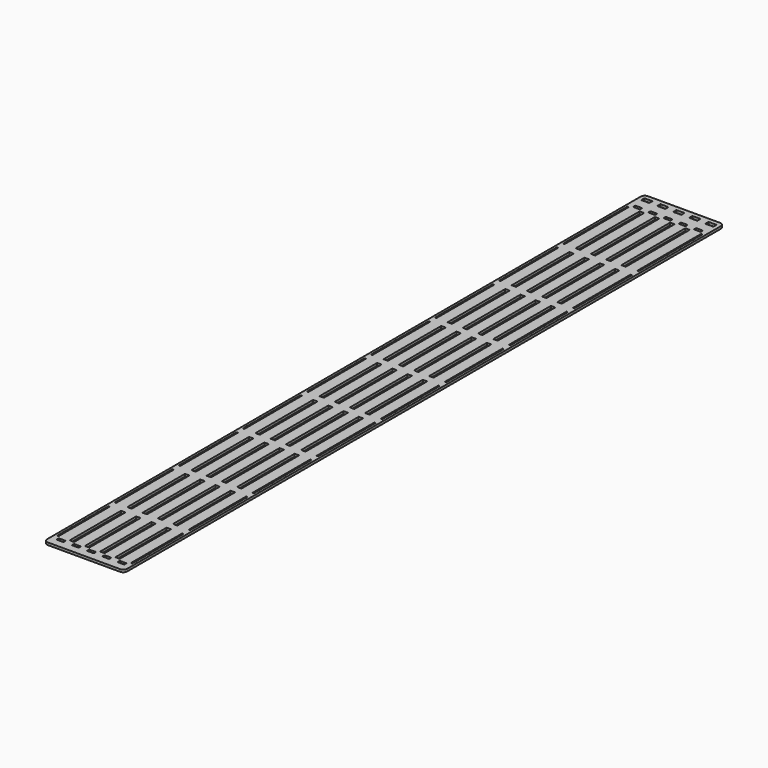
from build123d import *

# Parameters (mm, degrees)
F0_W     = 10
F0_H     = 5
F0_W_2   = 5.5
F0_H_2   = 10
F0_W_3   = 1.75
F1_DEPTH = 3


with BuildPart() as f1:
    # F0 (on Top) → F1 (new body)
    with BuildSketch(Plane.XY):
        with BuildLine():
            Line((45, 475), (-45, 475))
            ThreePointArc((-45, 475), (-48.5355339059, 473.5355339059), (-50, 470))
            Line((-50, 470), (-50, -456.75))
            ThreePointArc((-50, -456.75), (-48.5355339059, -460.2855339059), (-45, -461.75))
            Line((-45, -461.75), (45, -461.75))
            ThreePointArc((45, -461.75), (48.5355339059, -460.2855339059), (50, -456.75))
            Line((50, -456.75), (50, 470))
            ThreePointArc((50, 470), (48.5355339059, 473.5355339059), (45, 475))
        make_face()
        with BuildLine():
            Line((-41.75, -448.25), (-34.25, -448.25))
            ThreePointArc((-34.25, -448.25), (-33.8964466094, -448.3964466094), (-33.75, -448.75))
            Line((-33.75, -448.75), (-33.75, -451.25))
            ThreePointArc((-33.75, -451.25), (-33.8964466094, -451.6035533906), (-34.25, -451.75))
            Line((-34.25, -451.75), (-41.75, -451.75))
            ThreePointArc((-41.75, -451.75), (-42.1035533906, -451.6035533906), (-42.25, -451.25))
            Line((-42.25, -451.25), (-42.25, -448.75))
            ThreePointArc((-42.25, -448.75), (-42.1035533906, -448.3964466094), (-41.75, -448.25))
        make_face(mode=Mode.SUBTRACT)
        with BuildLine():
            Line((-22.75, -448.25), (-15.25, -448.25))
            ThreePointArc((-15.25, -448.25), (-14.8964466094, -448.3964466094), (-14.75, -448.75))
            Line((-14.75, -448.75), (-14.75, -451.25))
            ThreePointArc((-14.75, -451.25), (-14.8964466094, -451.6035533906), (-15.25, -451.75))
            Line((-15.25, -451.75), (-22.75, -451.75))
            ThreePointArc((-22.75, -451.75), (-23.1035533906, -451.6035533906), (-23.25, -451.25))
            Line((-23.25, -451.25), (-23.25, -448.75))
            ThreePointArc((-23.25, -448.75), (-23.1035533906, -448.3964466094), (-22.75, -448.25))
        make_face(mode=Mode.SUBTRACT)
        with BuildLine():
            Line((-4.25, -451.25), (-4.25, -448.75))
            ThreePointArc((-4.25, -448.75), (-4.1035533906, -448.3964466094), (-3.75, -448.25))
            Line((-3.75, -448.25), (3.75, -448.25))
            ThreePointArc((3.75, -448.25), (4.1035533906, -448.3964466094), (4.25, -448.75))
            Line((4.25, -448.75), (4.25, -451.25))
            ThreePointArc((4.25, -451.25), (4.1035533906, -451.6035533906), (3.75, -451.75))
            Line((3.75, -451.75), (-3.75, -451.75))
            ThreePointArc((-3.75, -451.75), (-4.1035533906, -451.6035533906), (-4.25, -451.25))
        make_face(mode=Mode.SUBTRACT)
        Polygon((-47, 345), (-47, 445), (-45.25, 445), (-45.25, 345), (-45.25, 335), (-45.25, 245), (-45.25, 235), (-45.25, 145), (-45.25, 135), (-45.25, 45), (-45.25, 35), (-45.25, -55), (-45.25, -65), (-45.25, -155), (-45.25, -165), (-45.25, -255), (-45.25, -265), (-45.25, -355), (-45.25, -365), (-45.25, -445), (-47, -445), (-47, -365), (-47, -355), (-47, -265), (-47, -255), (-47, -165), (-47, -155), (-47, -65), (-47, -55), (-47, 35), (-47, 45), (-47, 135), (-47, 145), (-47, 235), (-47, 245), (-47, 335), align=None, mode=Mode.SUBTRACT)
        Polygon((-31.25, 345), (-31.25, 445), (-25.75, 445), (-25.75, 345), (-25.75, 335), (-25.75, 245), (-25.75, 235), (-25.75, 145), (-25.75, 135), (-25.75, 45), (-25.75, 35), (-25.75, -55), (-25.75, -65), (-25.75, -155), (-25.75, -165), (-25.75, -255), (-25.75, -265), (-25.75, -355), (-25.75, -365), (-25.75, -445), (-31.25, -445), (-31.25, -365), (-31.25, -355), (-31.25, -265), (-31.25, -255), (-31.25, -165), (-31.25, -155), (-31.25, -65), (-31.25, -55), (-31.25, 35), (-31.25, 45), (-31.25, 135), (-31.25, 145), (-31.25, 235), (-31.25, 245), (-31.25, 335), align=None, mode=Mode.SUBTRACT)
        Polygon((-12.25, 345), (-12.25, 445), (-6.75, 445), (-6.75, 345), (-6.75, 335), (-6.75, 245), (-6.75, 235), (-6.75, 145), (-6.75, 135), (-6.75, 45), (-6.75, 35), (-6.75, -55), (-6.75, -65), (-6.75, -155), (-6.75, -165), (-6.75, -255), (-6.75, -265), (-6.75, -355), (-6.75, -365), (-6.75, -445), (-12.25, -445), (-12.25, -365), (-12.25, -355), (-12.25, -265), (-12.25, -255), (-12.25, -165), (-12.25, -155), (-12.25, -65), (-12.25, -55), (-12.25, 35), (-12.25, 45), (-12.25, 135), (-12.25, 145), (-12.25, 235), (-12.25, 245), (-12.25, 335), align=None, mode=Mode.SUBTRACT)
        with BuildLine():
            Line((15.25, -448.25), (22.75, -448.25))
            ThreePointArc((22.75, -448.25), (23.1035533906, -448.3964466094), (23.25, -448.75))
            Line((23.25, -448.75), (23.25, -451.25))
            ThreePointArc((23.25, -451.25), (23.1035533906, -451.6035533906), (22.75, -451.75))
            Line((22.75, -451.75), (15.25, -451.75))
            ThreePointArc((15.25, -451.75), (14.8964466094, -451.6035533906), (14.75, -451.25))
            Line((14.75, -451.25), (14.75, -448.75))
            ThreePointArc((14.75, -448.75), (14.8964466094, -448.3964466094), (15.25, -448.25))
        make_face(mode=Mode.SUBTRACT)
        with BuildLine():
            Line((33.75, -451.25), (33.75, -448.75))
            ThreePointArc((33.75, -448.75), (33.8964466094, -448.3964466094), (34.25, -448.25))
            Line((34.25, -448.25), (41.75, -448.25))
            ThreePointArc((41.75, -448.25), (42.1035533906, -448.3964466094), (42.25, -448.75))
            Line((42.25, -448.75), (42.25, -451.25))
            ThreePointArc((42.25, -451.25), (42.1035533906, -451.6035533906), (41.75, -451.75))
            Line((41.75, -451.75), (34.25, -451.75))
            ThreePointArc((34.25, -451.75), (33.8964466094, -451.6035533906), (33.75, -451.25))
        make_face(mode=Mode.SUBTRACT)
        Polygon((6.75, 345), (6.75, 445), (12.25, 445), (12.25, 345), (12.25, 335), (12.25, 245), (12.25, 235), (12.25, 145), (12.25, 135), (12.25, 45), (12.25, 35), (12.25, -55), (12.25, -65), (12.25, -155), (12.25, -165), (12.25, -255), (12.25, -265), (12.25, -355), (12.25, -365), (12.25, -445), (6.75, -445), (6.75, -365), (6.75, -355), (6.75, -265), (6.75, -255), (6.75, -165), (6.75, -155), (6.75, -65), (6.75, -55), (6.75, 35), (6.75, 45), (6.75, 135), (6.75, 145), (6.75, 235), (6.75, 245), (6.75, 335), align=None, mode=Mode.SUBTRACT)
        Polygon((25.75, 345), (25.75, 445), (31.25, 445), (31.25, 345), (31.25, 335), (31.25, 245), (31.25, 235), (31.25, 145), (31.25, 135), (31.25, 45), (31.25, 35), (31.25, -55), (31.25, -65), (31.25, -155), (31.25, -165), (31.25, -255), (31.25, -265), (31.25, -355), (31.25, -365), (31.25, -445), (25.75, -445), (25.75, -365), (25.75, -355), (25.75, -265), (25.75, -255), (25.75, -165), (25.75, -155), (25.75, -65), (25.75, -55), (25.75, 35), (25.75, 45), (25.75, 135), (25.75, 145), (25.75, 235), (25.75, 245), (25.75, 335), align=None, mode=Mode.SUBTRACT)
        Polygon((45.25, 445), (47, 445), (47, 345), (47, 335), (47, 245), (47, 235), (47, 145), (47, 135), (47, 45), (47, 35), (47, -55), (47, -65), (47, -155), (47, -165), (47, -255), (47, -265), (47, -355), (47, -365), (47, -445), (45.25, -445), (45.25, -365), (45.25, -355), (45.25, -265), (45.25, -255), (45.25, -165), (45.25, -155), (45.25, -65), (45.25, -55), (45.25, 35), (45.25, 45), (45.25, 135), (45.25, 145), (45.25, 235), (45.25, 245), (45.25, 335), (45.25, 345), align=None, mode=Mode.SUBTRACT)
        with BuildLine():
            ThreePointArc((-42.25, 451.25), (-42.1035533906, 451.6035533906), (-41.75, 451.75))
            Line((-41.75, 451.75), (-34.25, 451.75))
            ThreePointArc((-34.25, 451.75), (-33.8964466094, 451.6035533906), (-33.75, 451.25))
            Line((-33.75, 451.25), (-33.75, 448.75))
            ThreePointArc((-33.75, 448.75), (-33.8964466094, 448.3964466094), (-34.25, 448.25))
            Line((-34.25, 448.25), (-41.75, 448.25))
            ThreePointArc((-41.75, 448.25), (-42.1035533906, 448.3964466094), (-42.25, 448.75))
            Line((-42.25, 448.75), (-42.25, 451.25))
        make_face(mode=Mode.SUBTRACT)
        with Locations((-40, 467)):
            Rectangle(F0_W, F0_H, mode=Mode.SUBTRACT)
        with BuildLine():
            ThreePointArc((-23.25, 451.25), (-23.1035533906, 451.6035533906), (-22.75, 451.75))
            Line((-22.75, 451.75), (-15.25, 451.75))
            ThreePointArc((-15.25, 451.75), (-14.8964466094, 451.6035533906), (-14.75, 451.25))
            Line((-14.75, 451.25), (-14.75, 448.75))
            ThreePointArc((-14.75, 448.75), (-14.8964466094, 448.3964466094), (-15.25, 448.25))
            Line((-15.25, 448.25), (-22.75, 448.25))
            ThreePointArc((-22.75, 448.25), (-23.1035533906, 448.3964466094), (-23.25, 448.75))
            Line((-23.25, 448.75), (-23.25, 451.25))
        make_face(mode=Mode.SUBTRACT)
        with Locations((-20, 467)):
            Rectangle(F0_W, F0_H, mode=Mode.SUBTRACT)
        with BuildLine():
            ThreePointArc((-4.25, 451.25), (-4.1035533906, 451.6035533906), (-3.75, 451.75))
            Line((-3.75, 451.75), (3.75, 451.75))
            ThreePointArc((3.75, 451.75), (4.1035533906, 451.6035533906), (4.25, 451.25))
            Line((4.25, 451.25), (4.25, 448.75))
            ThreePointArc((4.25, 448.75), (4.1035533906, 448.3964466094), (3.75, 448.25))
            Line((3.75, 448.25), (-3.75, 448.25))
            ThreePointArc((-3.75, 448.25), (-4.1035533906, 448.3964466094), (-4.25, 448.75))
            Line((-4.25, 448.75), (-4.25, 451.25))
        make_face(mode=Mode.SUBTRACT)
        with Locations((0, 467)):
            Rectangle(F0_W, F0_H, mode=Mode.SUBTRACT)
        with BuildLine():
            ThreePointArc((14.75, 451.25), (14.8964466094, 451.6035533906), (15.25, 451.75))
            Line((15.25, 451.75), (22.75, 451.75))
            ThreePointArc((22.75, 451.75), (23.1035533906, 451.6035533906), (23.25, 451.25))
            Line((23.25, 451.25), (23.25, 448.75))
            ThreePointArc((23.25, 448.75), (23.1035533906, 448.3964466094), (22.75, 448.25))
            Line((22.75, 448.25), (15.25, 448.25))
            ThreePointArc((15.25, 448.25), (14.8964466094, 448.3964466094), (14.75, 448.75))
            Line((14.75, 448.75), (14.75, 451.25))
        make_face(mode=Mode.SUBTRACT)
        with Locations((20, 467)):
            Rectangle(F0_W, F0_H, mode=Mode.SUBTRACT)
        with BuildLine():
            ThreePointArc((33.75, 451.25), (33.8964466094, 451.6035533906), (34.25, 451.75))
            Line((34.25, 451.75), (41.75, 451.75))
            ThreePointArc((41.75, 451.75), (42.1035533906, 451.6035533906), (42.25, 451.25))
            Line((42.25, 451.25), (42.25, 448.75))
            ThreePointArc((42.25, 448.75), (42.1035533906, 448.3964466094), (41.75, 448.25))
            Line((41.75, 448.25), (34.25, 448.25))
            ThreePointArc((34.25, 448.25), (33.8964466094, 448.3964466094), (33.75, 448.75))
            Line((33.75, 448.75), (33.75, 451.25))
        make_face(mode=Mode.SUBTRACT)
        with Locations((40, 467)):
            Rectangle(F0_W, F0_H, mode=Mode.SUBTRACT)
        with Locations((-28.5, -160)):
            Rectangle(F0_W_2, F0_H_2)
        with Locations((-9.5, -160)):
            Rectangle(F0_W_2, F0_H_2)
        with Locations((9.5, -160)):
            Rectangle(F0_W_2, F0_H_2)
        with Locations((28.5, -160)):
            Rectangle(F0_W_2, F0_H_2)
        with Locations((-28.5, -260)):
            Rectangle(F0_W_2, F0_H_2)
        with Locations((-9.5, -260)):
            Rectangle(F0_W_2, F0_H_2)
        with Locations((9.5, -260)):
            Rectangle(F0_W_2, F0_H_2)
        with Locations((28.5, -260)):
            Rectangle(F0_W_2, F0_H_2)
        with Locations((-28.5, -360)):
            Rectangle(F0_W_2, F0_H_2)
        with Locations((-9.5, -360)):
            Rectangle(F0_W_2, F0_H_2)
        with Locations((28.5, -360)):
            Rectangle(F0_W_2, F0_H_2)
        with Locations((9.5, -360)):
            Rectangle(F0_W_2, F0_H_2)
        with Locations((-28.5, -60)):
            Rectangle(F0_W_2, F0_H_2)
        with Locations((-9.5, -60)):
            Rectangle(F0_W_2, F0_H_2)
        with Locations((9.5, -60)):
            Rectangle(F0_W_2, F0_H_2)
        with Locations((28.5, -60)):
            Rectangle(F0_W_2, F0_H_2)
        with Locations((-28.5, 40)):
            Rectangle(F0_W_2, F0_H_2)
        with Locations((-9.5, 40)):
            Rectangle(F0_W_2, F0_H_2)
        with Locations((9.5, 40)):
            Rectangle(F0_W_2, F0_H_2)
        with Locations((28.5, 40)):
            Rectangle(F0_W_2, F0_H_2)
        with Locations((-28.5, 140)):
            Rectangle(F0_W_2, F0_H_2)
        with Locations((-9.5, 140)):
            Rectangle(F0_W_2, F0_H_2)
        with Locations((9.5, 140)):
            Rectangle(F0_W_2, F0_H_2)
        with Locations((28.5, 140)):
            Rectangle(F0_W_2, F0_H_2)
        with Locations((-28.5, 240)):
            Rectangle(F0_W_2, F0_H_2)
        with Locations((-9.5, 240)):
            Rectangle(F0_W_2, F0_H_2)
        with Locations((9.5, 240)):
            Rectangle(F0_W_2, F0_H_2)
        with Locations((28.5, 240)):
            Rectangle(F0_W_2, F0_H_2)
        with Locations((-28.5, 340)):
            Rectangle(F0_W_2, F0_H_2)
        with Locations((-9.5, 340)):
            Rectangle(F0_W_2, F0_H_2)
        with Locations((9.5, 340)):
            Rectangle(F0_W_2, F0_H_2)
        with Locations((28.5, 340)):
            Rectangle(F0_W_2, F0_H_2)
        with Locations((-46.125, -160)):
            Rectangle(F0_W_3, F0_H_2)
        with Locations((46.125, -160)):
            Rectangle(F0_W_3, F0_H_2)
        with Locations((-46.125, -260)):
            Rectangle(F0_W_3, F0_H_2)
        with Locations((46.125, -260)):
            Rectangle(F0_W_3, F0_H_2)
        with Locations((-46.125, -360)):
            Rectangle(F0_W_3, F0_H_2)
        with Locations((46.125, -360)):
            Rectangle(F0_W_3, F0_H_2)
        with Locations((-46.125, -60)):
            Rectangle(F0_W_3, F0_H_2)
        with Locations((46.125, -60)):
            Rectangle(F0_W_3, F0_H_2)
        with Locations((-46.125, 40)):
            Rectangle(F0_W_3, F0_H_2)
        with Locations((46.125, 40)):
            Rectangle(F0_W_3, F0_H_2)
        with Locations((-46.125, 140)):
            Rectangle(F0_W_3, F0_H_2)
        with Locations((46.125, 140)):
            Rectangle(F0_W_3, F0_H_2)
        with Locations((-46.125, 240)):
            Rectangle(F0_W_3, F0_H_2)
        with Locations((46.125, 240)):
            Rectangle(F0_W_3, F0_H_2)
        with Locations((-46.125, 340)):
            Rectangle(F0_W_3, F0_H_2)
        with Locations((46.125, 340)):
            Rectangle(F0_W_3, F0_H_2)
    extrude(amount=F1_DEPTH)


solid = f1.part
